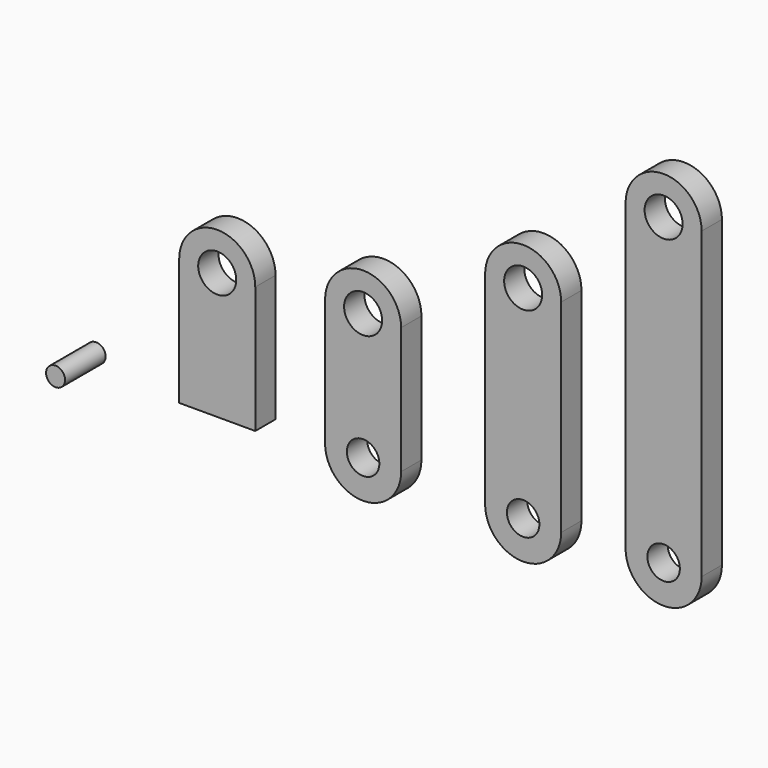
from build123d import *

# Parameters (mm, degrees)
F1_R      = 7.5
F2_DEPTH  = 10
F3_R      = 7.5
F3_R_2    = 6.4030769284
F4_DEPTH  = 10
F5_R      = 7.5
F5_R_2    = 6.4030769284
F6_DEPTH  = 10
F7_R      = 7.5
F7_R_2    = 6.4030769284
F8_DEPTH  = 10
F9_R      = 3.75
F10_DEPTH = 20


with BuildPart() as f2:
    # F1 (on Front) → F2 (new body)
    with BuildSketch(Plane.XZ):
        with BuildLine():
            Line((-15, 50), (-15, 0))
            Line((-15, 0), (0, 0))
            Line((0, 0), (15, 0))
            Line((15, 0), (15, 50))
            ThreePointArc((15, 50), (0, 35), (-15, 50))
        make_face()
        with BuildLine():
            ThreePointArc((15, 50), (0, 65), (-15, 50))
            ThreePointArc((-15, 50), (0, 35), (15, 50))
        make_face()
        with Locations((0, 50)):
            Circle(F1_R, mode=Mode.SUBTRACT)
    extrude(amount=F2_DEPTH)


with BuildPart() as f4:
    # F3 (on Front) → F4 (new body)
    with BuildSketch(Plane.XZ):
        with BuildLine():
            Line((42.5428944139, 54.599240981), (42.5428944139, 4.599240981))
            ThreePointArc((42.5428944139, 4.599240981), (57.5428944139, 19.599240981), (72.5428944139, 4.599240981))
            Line((72.5428944139, 4.599240981), (72.5428944139, 54.599240981))
            ThreePointArc((72.5428944139, 54.599240981), (57.5428944139, 39.599240981), (42.5428944139, 54.599240981))
        make_face()
        with BuildLine():
            ThreePointArc((72.5428944139, 54.599240981), (57.5428944139, 69.599240981), (42.5428944139, 54.599240981))
            ThreePointArc((42.5428944139, 54.599240981), (57.5428944139, 39.599240981), (72.5428944139, 54.599240981))
        make_face()
        with Locations((57.5428944139, 54.599240981)):
            Circle(F3_R, mode=Mode.SUBTRACT)
        with BuildLine():
            ThreePointArc((72.5428944139, 4.599240981), (57.5428944139, 19.599240981), (42.5428944139, 4.599240981))
            ThreePointArc((42.5428944139, 4.599240981), (57.5428944139, -10.400759019), (72.5428944139, 4.599240981))
        make_face()
        with Locations((57.5428944139, 4.599240981)):
            Circle(F3_R_2, mode=Mode.SUBTRACT)
    extrude(amount=F4_DEPTH)


with BuildPart() as f6:
    # F5 (on Front) → F6 (new body)
    with BuildSketch(Plane.XZ):
        with BuildLine():
            Line((105.6686431542, 84.0109291673), (105.6686431542, 4.0109291673))
            ThreePointArc((105.6686431542, 4.0109291673), (120.6686431542, 19.0109291673), (135.6686431542, 4.0109291673))
            Line((135.6686431542, 4.0109291673), (135.6686431542, 84.0109291673))
            ThreePointArc((135.6686431542, 84.0109291673), (120.6686431542, 69.0109291673), (105.6686431542, 84.0109291673))
        make_face()
        with BuildLine():
            ThreePointArc((135.6686431542, 84.0109291673), (120.6686431542, 99.0109291673), (105.6686431542, 84.0109291673))
            ThreePointArc((105.6686431542, 84.0109291673), (120.6686431542, 69.0109291673), (135.6686431542, 84.0109291673))
        make_face()
        with Locations((120.6686431542, 84.0109291673)):
            Circle(F5_R, mode=Mode.SUBTRACT)
        with BuildLine():
            ThreePointArc((135.6686431542, 4.0109291673), (120.6686431542, 19.0109291673), (105.6686431542, 4.0109291673))
            ThreePointArc((105.6686431542, 4.0109291673), (120.6686431542, -10.9890708327), (135.6686431542, 4.0109291673))
        make_face()
        with Locations((120.6686431542, 4.0109291673)):
            Circle(F5_R_2, mode=Mode.SUBTRACT)
    extrude(amount=F6_DEPTH)


with BuildPart() as f8:
    # F7 (on Front) → F8 (new body)
    with BuildSketch(Plane.XZ):
        with BuildLine():
            ThreePointArc((191.0695902631, 126.6690473258), (176.0695902631, 141.6690473258), (161.0695902631, 126.6690473258))
            ThreePointArc((161.0695902631, 126.6690473258), (176.0695902631, 111.6690473258), (191.0695902631, 126.6690473258))
        make_face()
        with Locations((176.0695902631, 126.6690473258)):
            Circle(F7_R, mode=Mode.SUBTRACT)
        with BuildLine():
            Line((161.0695902631, 126.6690473258), (161.0695902631, 6.6690473258))
            ThreePointArc((161.0695902631, 6.6690473258), (176.0695902631, 21.6690473258), (191.0695902631, 6.6690473258))
            Line((191.0695902631, 6.6690473258), (191.0695902631, 126.6690473258))
            ThreePointArc((191.0695902631, 126.6690473258), (176.0695902631, 111.6690473258), (161.0695902631, 126.6690473258))
        make_face()
        with BuildLine():
            ThreePointArc((191.0695902631, 6.6690473258), (176.0695902631, 21.6690473258), (161.0695902631, 6.6690473258))
            ThreePointArc((161.0695902631, 6.6690473258), (176.0695902631, -8.3309526742), (191.0695902631, 6.6690473258))
        make_face()
        with Locations((176.0695902631, 6.6690473258)):
            Circle(F7_R_2, mode=Mode.SUBTRACT)
    extrude(amount=F8_DEPTH)


with BuildPart() as f10:
    # F9 (on Front) → F10 (new body)
    with BuildSketch(Plane.XZ):
        with Locations((-55.7615682483, 0)):
            Circle(F9_R)
    extrude(amount=F10_DEPTH)


solid = Compound([f2.part, f4.part, f6.part, f8.part, f10.part])
